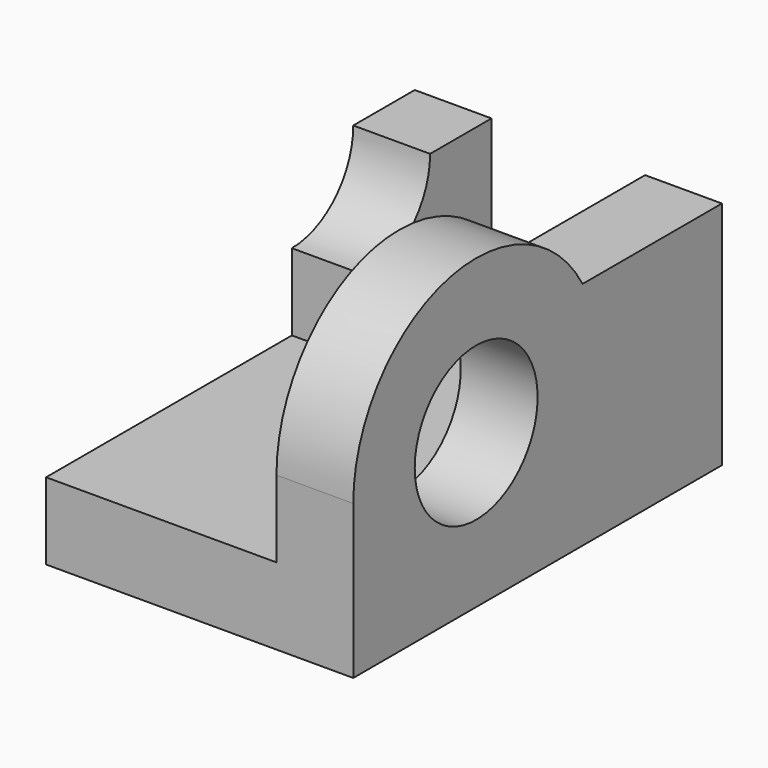
from build123d import *

# Parameters (mm, degrees)
F0_W      = 1016
F0_H      = 254
F1_DEPTH  = 1524
F2_W      = 254
F2_H      = 508
F3_DEPTH  = 508
F4_W      = 254
F4_H      = 1524
F5_DEPTH  = 762
F7_DEPTH  = 254
F9_DEPTH  = 254
F10_W     = 508
F10_H     = 254
F11_DEPTH = 254


with BuildPart() as f1:
    # F0 (on Front) → F1 (new body)
    with BuildSketch(Plane.XZ):
        with Locations((332.7798564441, 16.3567224517)):
            Rectangle(F0_W, F0_H)
    extrude(amount=F1_DEPTH)

    # F2 (on face) → F3 (join)
    with BuildSketch(Plane.XY.offset(143.3567224517)):
        with Locations((-48.2201435559, -254)):
            Rectangle(F2_W, F2_H)
    extrude(amount=F3_DEPTH)

    # F4 (on face) → F5 (join)
    with BuildSketch(Plane.XY.offset(143.3567224517)):
        with Locations((713.7798564441, -762)):
            Rectangle(F4_W, F4_H)
    extrude(amount=F5_DEPTH)

    # F6 (on face) → F7 (cut)
    with BuildSketch(Plane(origin=(-175.2201435559, 0, 0), x_dir=(0, -1, 0), z_dir=(-1, 0, 0))):
        with BuildLine():
            Line((508, 651.3567224517), (254, 651.3567224517))
            ThreePointArc((254, 651.3567224517), (328.3948775786, 471.7516000304), (508, 397.3567224517))
            Line((508, 397.3567224517), (508, 651.3567224517))
        make_face()
    extrude(amount=-F7_DEPTH, mode=Mode.SUBTRACT)

    # F8 (on face) → F9 (cut)
    with BuildSketch(Plane.YZ.offset(840.7798564441)):
        with BuildLine():
            ThreePointArc((-1016, 651.3567224517), (-1195.6051224214, 576.9618448731), (-1270, 397.3567224517))
            Line((-1270, 397.3567224517), (-1016, 397.3567224517))
            Line((-1016, 397.3567224517), (-1016, 651.3567224517))
        make_face()
        with BuildLine():
            Line((-1016, 397.3567224517), (-762, 397.3567224517))
            ThreePointArc((-762, 397.3567224517), (-836.3948775786, 576.9618448731), (-1016, 651.3567224517))
            Line((-1016, 651.3567224517), (-1016, 397.3567224517))
        make_face()
        with BuildLine():
            Line((-1016, 397.3567224517), (-1270, 397.3567224517))
            ThreePointArc((-1270, 397.3567224517), (-1016, 143.3567224517), (-762, 397.3567224517))
            Line((-762, 397.3567224517), (-1016, 397.3567224517))
        make_face()
    extrude(amount=-F9_DEPTH, mode=Mode.SUBTRACT)

    # F10 (on face) → F11 (cut)
    with BuildSketch(Plane.YZ.offset(840.7798564441)):
        with BuildLine():
            Line((-762, 397.3567224517), (-1270, 397.3567224517))
            ThreePointArc((-1270, 397.3567224517), (-1016, 143.3567224517), (-762, 397.3567224517))
        make_face()
        with BuildLine():
            ThreePointArc((-762, 397.3567224517), (-1016, 651.3567224517), (-1270, 397.3567224517))
            Line((-1270, 397.3567224517), (-762, 397.3567224517))
        make_face()
        with BuildLine():
            Line((-1524, 905.3567224517), (-1524, 397.3567224517))
            ThreePointArc((-1524, 397.3567224517), (-1375.2102448427, 756.5669672945), (-1015.9999999999, 905.3567224517))
            Line((-1015.9999999999, 905.3567224517), (-1524, 905.3567224517))
        make_face()
        with BuildLine():
            Line((-508, 905.3567224517), (-1015.9999999999, 905.3567224517))
            ThreePointArc((-1015.9999999999, 905.3567224517), (-762, 837.2976275742), (-576.0590948775, 651.3567224517))
            Line((-576.0590948775, 651.3567224517), (-508, 651.3567224517))
            Line((-508, 651.3567224517), (-508, 905.3567224517))
        make_face()
        with Locations((-254, 778.3567224517)):
            Rectangle(F10_W, F10_H)
    extrude(amount=-F11_DEPTH, mode=Mode.SUBTRACT)


solid = f1.part
